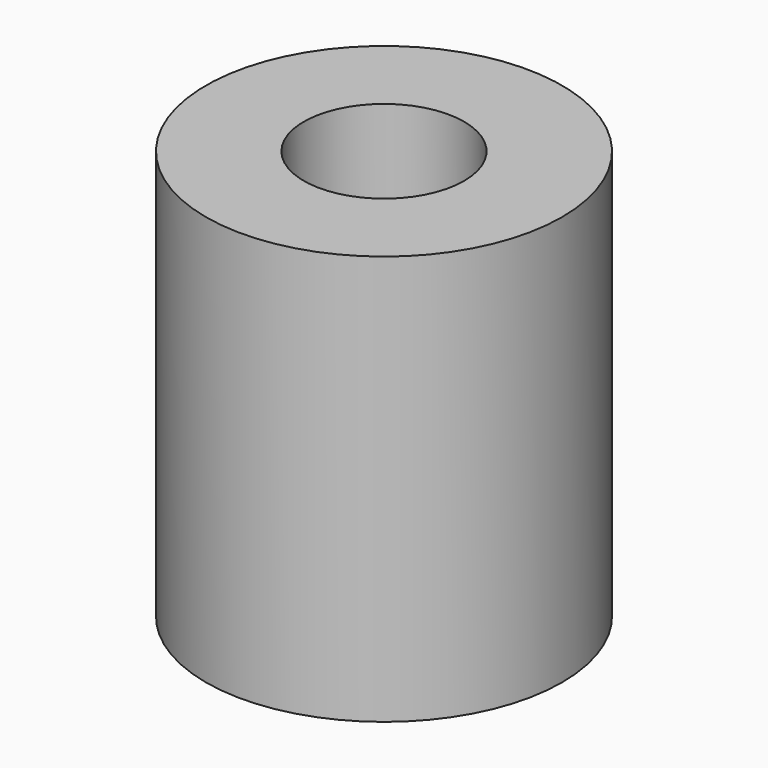
from build123d import *

# Parameters (mm, degrees)
SKETCH_R     = 5
PAD_DEPTH    = 11.5
SKETCH001_R  = 2.25
POCKET_DEPTH = 11.501


with BuildPart() as part:
    # Sketch → Pad (new body)
    with BuildSketch(Plane.XY):
        Circle(SKETCH_R)
    extrude(amount=PAD_DEPTH)

    # Sketch001 → Pocket (cut, through all)
    with BuildSketch(Plane.XY.offset(11.5)):
        Circle(SKETCH001_R)
    extrude(amount=-POCKET_DEPTH, mode=Mode.SUBTRACT)


solid = part.part
